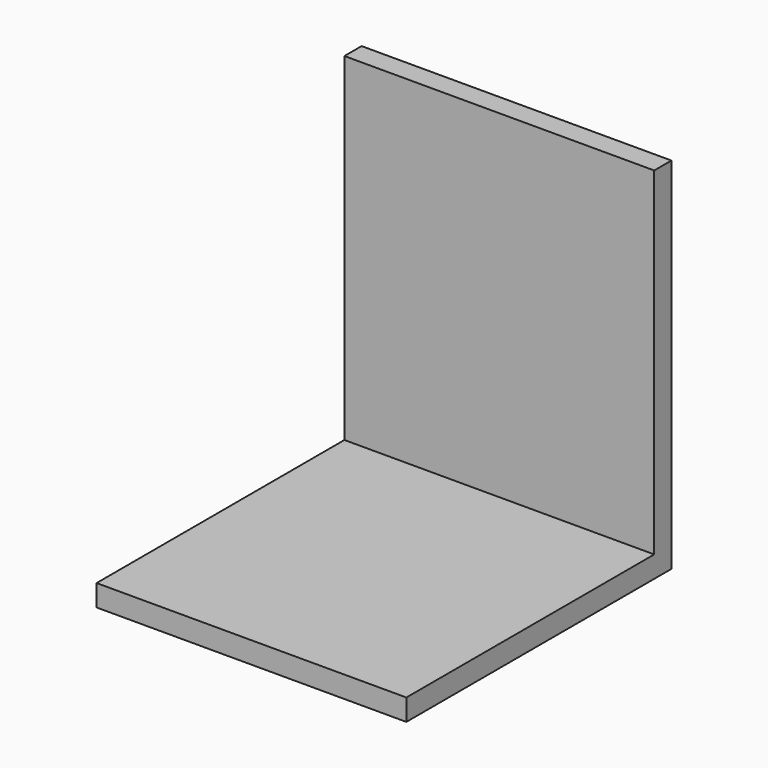
from build123d import *

# Parameters (mm, degrees)
F0_W     = 45.72
F0_H     = 76.2
F1_DEPTH = 3.175
F2_W     = 45.72
F2_H     = 3.175
F3_DEPTH = 45.72
F4_W     = 45.72
F4_H     = 11.801704
F4_H_2   = 11.337079
F5_DEPTH = 25.4


with BuildPart() as f1:
    # F0 (on Front) → F1 (new body)
    with BuildSketch(Plane.XZ):
        with Locations((-14.912491, 38.1)):
            Rectangle(F0_W, F0_H)
    extrude(amount=F1_DEPTH)

    # F2 (on face) → F3 (join)
    with BuildSketch(Plane.XZ.offset(3.175)):
        with Locations((-14.912491, 1.5875)):
            Rectangle(F2_W, F2_H)
    extrude(amount=F3_DEPTH)

    # F4 (on face) → F5 (cut)
    with BuildSketch(Plane.XZ.offset(3.175)):
        with Locations((-14.912491, 70.299148)):
            Rectangle(F4_W, F4_H)
        with Locations((-14.912491, 58.729757)):
            Rectangle(F4_W, F4_H_2)
    extrude(amount=-F5_DEPTH, mode=Mode.SUBTRACT)


solid = f1.part
